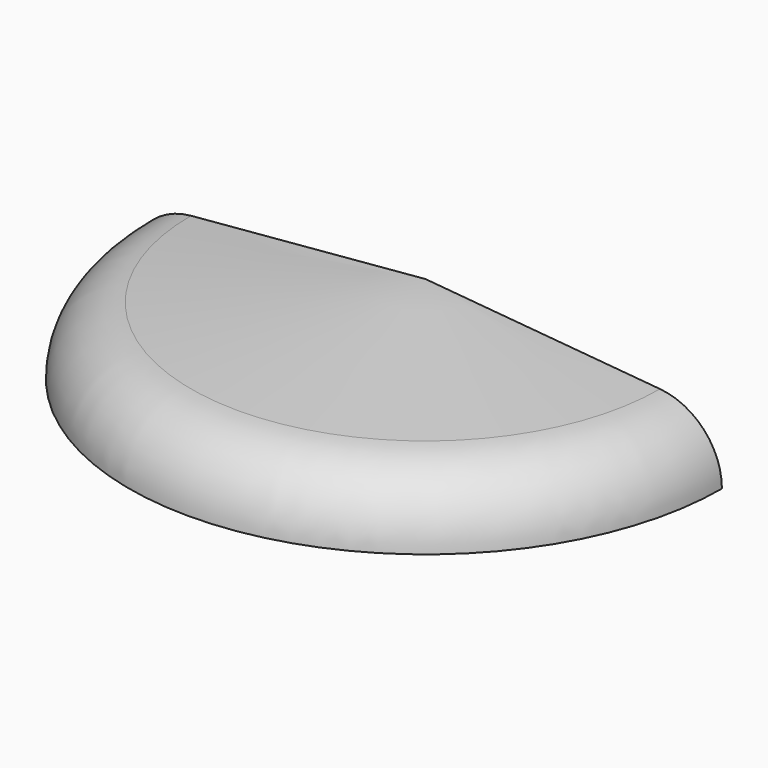
from build123d import *

# Parameters (mm, degrees)
F1_ANGLE_BACK = 90
F1_ANGLE      = 180


with BuildPart() as f1:
    # F0 (on Right) → F1 (revolve)
    with BuildSketch(Plane.YZ, mode=Mode.PRIVATE) as f1_sk:
        with BuildLine():
            Line((0, 47.2196742014), (0, 50.231133714))
            Line((0, 50.231133714), (-71.0621046245, 44.0140051531))
            ThreePointArc((-71.0621046245, 44.0140051531), (-84.4305257696, 37.4214294121), (-89.8328800953, 23.5292983102))
            Line((-89.8328800953, 23.5292983102), (-86.8328800953, 23.5292983102))
            ThreePointArc((-86.8328800953, 23.5292983102), (-82.2186937592, 35.3946587893), (-70.8006373963, 41.0254210588))
            Line((-70.8006373963, 41.0254210588), (0, 47.2196742014))
        make_face()
    revolve(f1_sk.sketch.rotate(Axis((0, 0, -0.5064643919), (0, 0, -1)), -F1_ANGLE_BACK), axis=Axis((0, 0, -0.5064643919), (0, 0, -1)), revolution_arc=F1_ANGLE)


solid = f1.part
